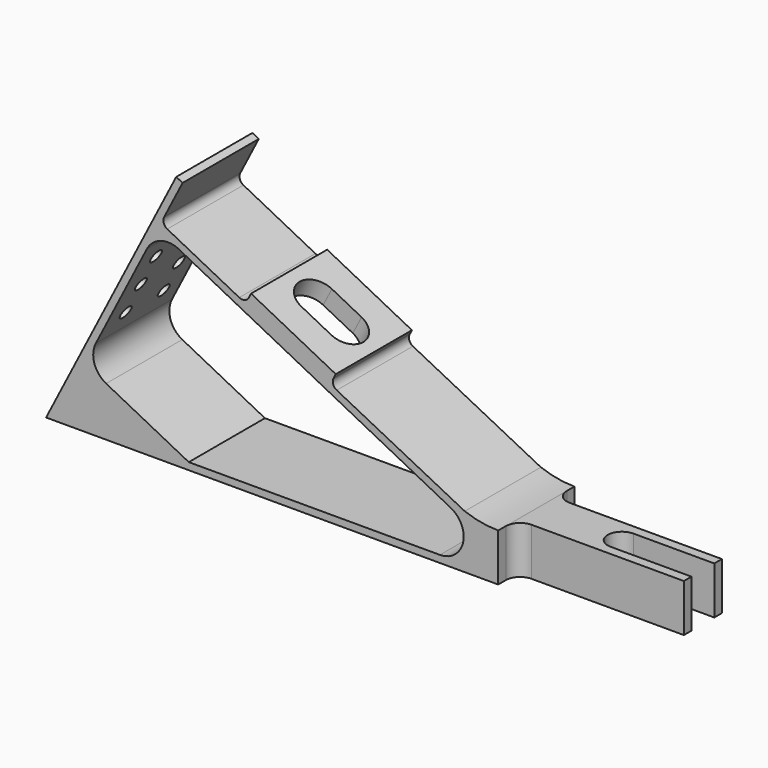
from build123d import *

# Parameters (mm, degrees)
F1_DEPTH  = 20
F2_R      = 1.5
F3_W      = 35
F3_H      = 5
F4_DEPTH  = 10.001
F5_R      = 3
F7_DEPTH  = 10.001
F9_DEPTH  = 4
F11_DEPTH = 20.001
F12_R     = 5.5
F12_R_2   = 4.25
F13_DEPTH = 2
F14_DEPTH = 115.7145863741
F15_R     = 1.395
F16_DEPTH = 25


with BuildPart() as f1:
    # F0 (on Front) → F1 (new body)
    with BuildSketch(Plane.XZ):
        with BuildLine():
            Line((27.3453882208, 53.4062706342), (0, 0))
            Line((0, 0), (130, 0))
            Line((130, 0), (130, 10))
            Line((130, 10), (95, 10))
            ThreePointArc((95, 10), (91.4222885738, 10.322602282), (87.9599949346, 11.2800019049))
            Line((87.9599949346, 11.2800019049), (59.727160706, 25.5913320091))
            Line((59.727160706, 25.5913320091), (60.8665518818, 27.8165932856))
            Line((60.8665518818, 27.8165932856), (43.0644616704, 36.9317226925))
            Line((43.0644616704, 36.9317226925), (41.9250704946, 34.7064614161))
            Line((41.9250704946, 34.7064614161), (24.1229802832, 43.821590823))
            Line((24.1229802832, 43.821590823), (28.6805449866, 52.7226359287))
            Line((28.6805449866, 52.7226359287), (27.3453882208, 53.4062706342))
        make_face()
    extrude(amount=F1_DEPTH)

    # F2
    f2_edges = [f1.edges().sort_by_distance(p)[0] for p in [
        (59.727161, -10, 25.591332),
        (24.12298, -10, 43.821591),
        (41.92507, -10, 34.706461),
    ]]
    fillet(f2_edges, radius=F2_R)

    # F3 (on face) → F4 (cut, through all)
    with BuildSketch(Plane.XY.offset(10)):
        with Locations((112.5, -2.5)):
            Rectangle(F3_W, F3_H)
        with Locations((112.5, -17.5)):
            Rectangle(F3_W, F3_H)
    extrude(amount=-F4_DEPTH, mode=Mode.SUBTRACT)

    # F5
    f5_edges = [f1.edges().sort_by_distance(p)[0] for p in [
        (95, -15, 5),
        (95, -5, 5),
    ]]
    fillet(f5_edges, radius=F5_R)

    # F6 (on face) → F7 (cut, through all)
    with BuildSketch(Plane.XY.offset(10)):
        with BuildLine():
            Line((130, -13), (130, -7))
            Line((130, -7), (113, -7))
            ThreePointArc((113, -7), (110, -10), (113, -13))
            Line((113, -13), (130, -13))
        make_face()
    extrude(amount=-F7_DEPTH, mode=Mode.SUBTRACT)

    # F8 (on face) → F9 (cut)
    with BuildSketch(Plane(origin=(23.9272146932, 0, 46.7304868049), x_dir=(0.8901045106, 0, -0.4557564703), z_dir=(0.4557564703, 0, 0.8901045106))):
        with BuildLine():
            Line((35, -6), (28, -6))
            ThreePointArc((28, -6), (24, -10), (28, -14))
            Line((28, -14), (35, -14))
            ThreePointArc((35, -14), (39, -10), (35, -6))
        make_face()
    extrude(amount=-F9_DEPTH, mode=Mode.SUBTRACT)

    # F10 (on face) → F11 (cut, through all)
    with BuildSketch(Plane.XZ.offset(20)):
        with BuildLine():
            ThreePointArc((27.8898681305, 40.2076517054), (24.0754335556, 40.5154662833), (21.1605632259, 38.0359115043))
            Line((21.1605632259, 38.0359115043), (10.4502861728, 17.1184555059))
            ThreePointArc((10.4502861728, 17.1184555059), (10.1424715949, 13.304020931), (12.6220263739, 10.3891506013))
            Line((12.6220263739, 10.3891506013), (29.9827739665, 1.5))
            Line((29.9827739665, 1.5), (82.7510373087, 1.5))
            ThreePointArc((82.7510373087, 1.5), (87.6117272167, 5.3279532356), (85.0298196604, 10.9505225529))
            Line((85.0298196604, 10.9505225529), (27.8898681305, 40.2076517054))
        make_face()
    extrude(amount=-F11_DEPTH, mode=Mode.SUBTRACT)

    # F12 (on face) → F13 (cut)
    with BuildSketch(Plane(origin=(0, 0, 0), x_dir=(0, -1, 0), z_dir=(-0.8901045106, 0, 0.4557564703))):
        with Locations((10, 7.5)):
            Circle(F12_R)
        with Locations((10, 7.5)):
            Circle(F12_R_2, mode=Mode.SUBTRACT)
    extrude(amount=-F13_DEPTH, mode=Mode.SUBTRACT)

    # F14 (cut, through all): a face of the model
    f14_faces = [f1.faces().sort_by_distance(p)[0] for p in [
        (3.4181735276, -10, 6.6757838293),
    ]]
    extrude(f14_faces, amount=-F14_DEPTH, mode=Mode.SUBTRACT)

    # F15 (on face) → F16 (cut)
    with BuildSketch(Plane(origin=(0, 0, 0), x_dir=(0, -1, 0), z_dir=(-0.8901045106, 0, 0.4557564703))):
        with Locations((5, 25)):
            Circle(F15_R)
        with Locations((5, 39)):
            Circle(F15_R)
        with Locations((5, 32)):
            Circle(F15_R)
        with Locations((15, 39)):
            Circle(F15_R)
        with Locations((15, 32)):
            Circle(F15_R)
        with Locations((15, 25)):
            Circle(F15_R)
    extrude(amount=-F16_DEPTH, mode=Mode.SUBTRACT)


solid = f1.part
